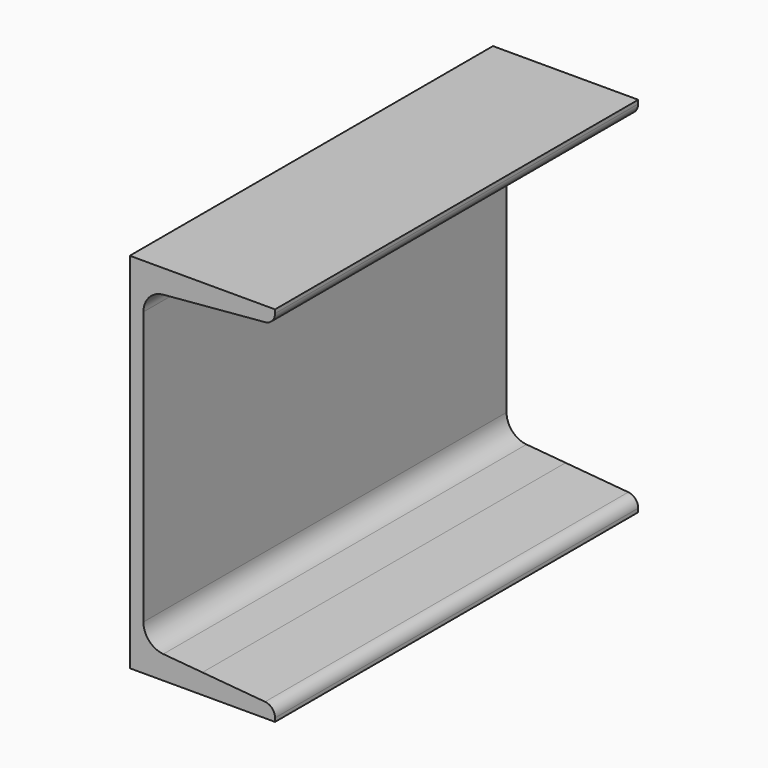
from build123d import *

# Parameters (mm, degrees)
F1_DEPTH = 125


with BuildPart() as f1:
    # F0 (on Front) → F1 (new body, symmetric)
    with BuildSketch(Plane.XZ):
        with BuildLine():
            Line((0, 100), (0, 0))
            Line((0, 0), (7.5, 0))
            Line((7.5, 0), (7.5, 75.160644))
            ThreePointArc((7.5, 75.160644), (10.652672, 83.267727), (18.454131, 87.114981))
            Line((18.454131, 87.114981), (40, 89))
            Line((40, 89), (40, 100))
            Line((40, 100), (0, 100))
        make_face()
        with BuildLine():
            Line((80, 100), (40, 100))
            Line((40, 100), (40, 89))
            Line((40, 89), (74.522934, 92.020365))
            ThreePointArc((74.522934, 92.020365), (78.423664, 93.943992), (80, 97.997534))
            Line((80, 97.997534), (80, 100))
        make_face()
        with BuildLine():
            Line((7.5, 0), (0, 0))
            Line((0, 0), (0, -100))
            Line((0, -100), (40, -100))
            Line((40, -100), (40, -89))
            Line((40, -89), (18.454131, -87.114981))
            ThreePointArc((18.454131, -87.114981), (10.652672, -83.267727), (7.5, -75.160644))
            Line((7.5, -75.160644), (7.5, 0))
        make_face()
        with BuildLine():
            Line((40, -89), (40, -100))
            Line((40, -100), (80, -100))
            Line((80, -100), (80, -97.997534))
            ThreePointArc((80, -97.997534), (78.423664, -93.943992), (74.522934, -92.020365))
            Line((74.522934, -92.020365), (40, -89))
        make_face()
    extrude(amount=F1_DEPTH, both=True)


solid = f1.part
